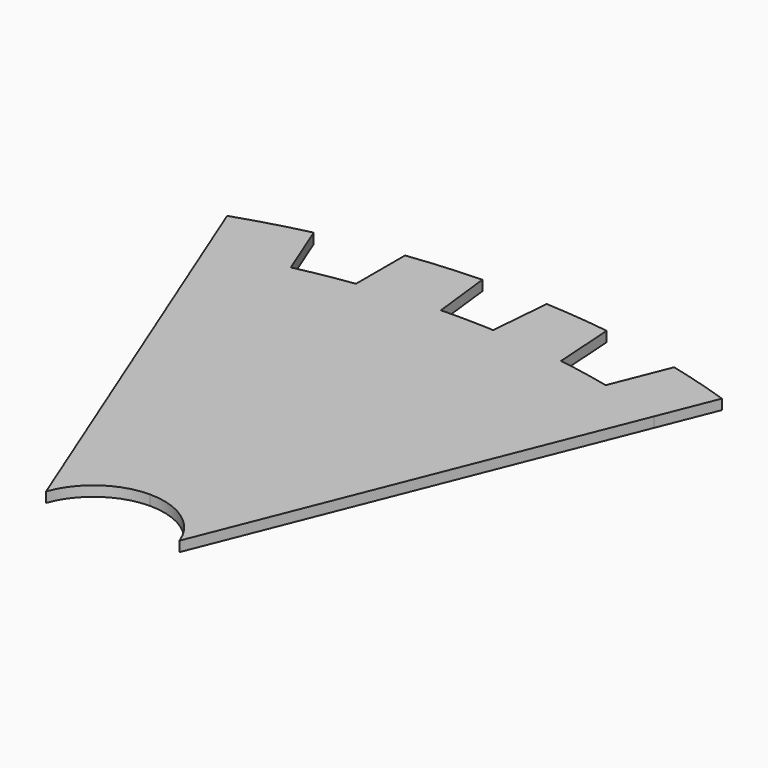
from build123d import *

# Parameters (mm, degrees)
F1_DEPTH = 6.35


with BuildPart() as f1:
    # F0 (on Top) → F1 (new body)
    with BuildSketch(Plane.XY):
        with BuildLine():
            Line((-154.950552, 298.45), (-140.789837, 263.01141))
            ThreePointArc((-140.789837, 263.01141), (-118.797918, 269.683277), (-96.492304, 275.216619))
            Line((-96.492304, 275.216619), (-110.79203, 311.034942))
            ThreePointArc((-110.79203, 311.034942), (-133.020206, 305.264989), (-154.950552, 298.45))
        make_face()
        with BuildLine():
            Line((-140.789837, 263.01141), (-41.769337, 15.202795))
            ThreePointArc((-41.769337, 15.202795), (-25.495473, 36.411308), (0, 44.45))
            Line((0, 44.45), (0, 285.75))
            ThreePointArc((0, 285.75), (-5.398738, 285.717413), (-10.79669, 285.619659))
            ThreePointArc((-10.79669, 285.619659), (-13.004656, 285.560884), (-15.212304, 285.491206))
            ThreePointArc((-15.212304, 285.491206), (-35.56927, 284.333306), (-55.852304, 282.248749))
            ThreePointArc((-55.852304, 282.248749), (-58.324185, 281.930614), (-60.794255, 281.59871))
            ThreePointArc((-60.794255, 281.59871), (-78.707993, 278.769638), (-96.492304, 275.216619))
            ThreePointArc((-96.492304, 275.216619), (-118.797918, 269.683277), (-140.789837, 263.01141))
        make_face()
        with BuildLine():
            Line((-60.794255, 320.027298), (-60.794255, 281.59871))
            ThreePointArc((-60.794255, 281.59871), (-58.324185, 281.930614), (-55.852304, 282.248749))
            Line((-55.852304, 282.248749), (-60.794255, 320.027298))
        make_face()
        with BuildLine():
            Line((-15.212304, 285.491206), (-15.214958, 323.61145))
            ThreePointArc((-15.214958, 323.61145), (-38.046835, 322.356389), (-60.794255, 320.027298))
            Line((-60.794255, 320.027298), (-55.852304, 282.248749))
            ThreePointArc((-55.852304, 282.248749), (-35.56927, 284.333306), (-15.212304, 285.491206))
        make_face()
        with BuildLine():
            ThreePointArc((-15.212304, 285.491206), (-13.004656, 285.560884), (-10.79669, 285.619659))
            Line((-10.79669, 285.619659), (-15.214958, 323.61145))
            Line((-15.214958, 323.61145), (-15.212304, 285.491206))
        make_face()
        with BuildLine():
            Line((25.425042, 323.183572), (22.260174, 285.195675))
            ThreePointArc((22.260174, 285.195675), (23.842758, 285.113996), (25.425042, 285.02671))
            Line((25.425042, 285.02671), (25.425042, 323.183572))
        make_face()
        with BuildLine():
            ThreePointArc((66.065042, 319.33247), (45.78555, 321.685498), (25.425042, 323.183572))
            Line((25.425042, 323.183572), (25.425042, 285.02671))
            ThreePointArc((25.425042, 285.02671), (45.792833, 283.399417), (66.065042, 280.84352))
            Line((66.065042, 280.84352), (66.065042, 319.33247))
        make_face()
        with BuildLine():
            ThreePointArc((66.065042, 280.84352), (67.309092, 280.655921), (68.55261, 280.464823))
            Line((68.55261, 280.464823), (66.065042, 319.33247))
            Line((66.065042, 319.33247), (66.065042, 280.84352))
        make_face()
        with BuildLine():
            ThreePointArc((101.674655, 274.039195), (121.357573, 268.969833), (140.789837, 263.01141))
            Line((140.789837, 263.01141), (154.950552, 298.45))
            ThreePointArc((154.950552, 298.45), (135.574613, 304.529427), (115.961315, 309.792979))
            Line((115.961315, 309.792979), (101.674655, 274.039195))
        make_face()
        with BuildLine():
            ThreePointArc((0, 44.45), (25.495473, 36.411308), (41.769337, 15.202795))
            Line((41.769337, 15.202795), (140.789837, 263.01141))
            ThreePointArc((140.789837, 263.01141), (121.357573, 268.969833), (101.674655, 274.039195))
            ThreePointArc((101.674655, 274.039195), (85.174248, 277.564466), (68.55261, 280.464823))
            ThreePointArc((68.55261, 280.464823), (67.309092, 280.655921), (66.065042, 280.84352))
            ThreePointArc((66.065042, 280.84352), (45.792833, 283.399417), (25.425042, 285.02671))
            ThreePointArc((25.425042, 285.02671), (23.842758, 285.113996), (22.260174, 285.195675))
            ThreePointArc((22.260174, 285.195675), (11.133537, 285.611397), (0, 285.75))
            Line((0, 285.75), (0, 44.45))
        make_face()
    extrude(amount=F1_DEPTH)


solid = f1.part
